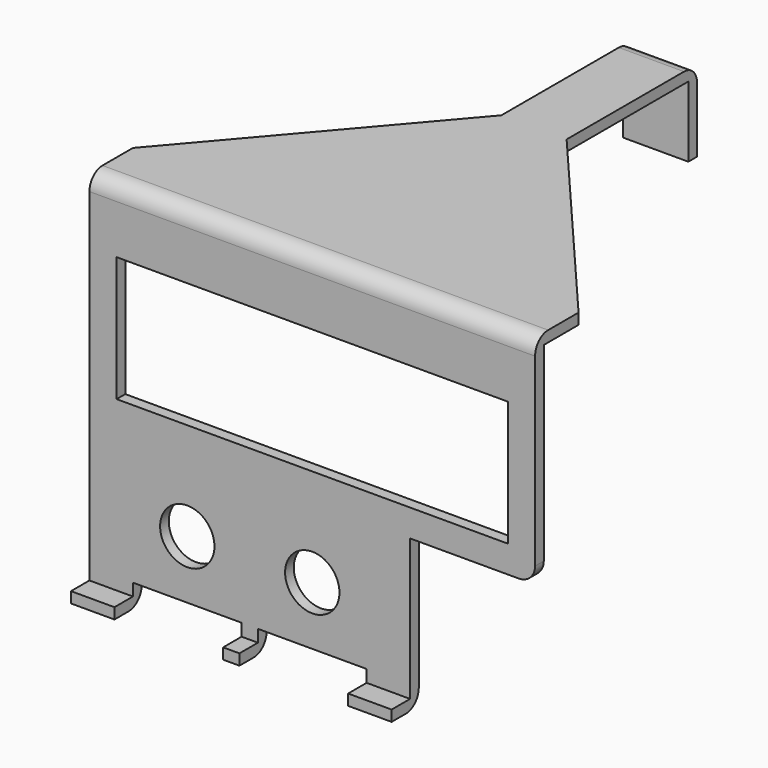
from build123d import *

# Parameters (mm, degrees)
F0_R     = 5
F0_W     = 72
F0_H     = 23
F1_DEPTH = 2
F0_W_2   = 8
F0_H_2   = 2
F0_W_3   = 3
F2_DEPTH = 6.25
F3_R     = 3
F5_DEPTH = 2
F4_W     = 12
F4_H     = 2
F6_DEPTH = 15
F7_R     = 3


with BuildPart() as f1:
    # F0 (on Front) → F1 (new body)
    with BuildSketch(Plane.XZ):
        with BuildLine():
            Line((29.867854, 38.356669), (-52.132146, 38.356669))
            Line((-52.132146, 38.356669), (-52.132146, -27.643331))
            Line((-52.132146, -27.643331), (-44.132146, -27.643331))
            Line((-44.132146, -27.643331), (-44.132146, -25.393331))
            Line((-44.132146, -25.393331), (-24.132146, -25.393331))
            Line((-24.132146, -25.393331), (-24.132146, -27.643331))
            Line((-24.132146, -27.643331), (-21.132146, -27.643331))
            Line((-21.132146, -27.643331), (-21.132146, -25.393331))
            Line((-21.132146, -25.393331), (-1.132146, -25.393331))
            Line((-1.132146, -25.393331), (-1.132146, -27.643331))
            Line((-1.132146, -27.643331), (6.867854, -27.643331))
            Line((6.867854, -27.643331), (6.867854, -1.643331))
            Line((6.867854, -1.643331), (26.867854, -1.643331))
            ThreePointArc((26.867854, -1.643331), (28.989174, -0.764651), (29.867854, 1.356669))
            Line((29.867854, 1.356669), (29.867854, 38.356669))
        make_face()
        with Locations((-34.132146, -14.643331)):
            Circle(F0_R, mode=Mode.SUBTRACT)
        with Locations((-11.132146, -14.643331)):
            Circle(F0_R, mode=Mode.SUBTRACT)
        with Locations((-11.132146, 14.856669)):
            Rectangle(F0_W, F0_H, mode=Mode.SUBTRACT)
    extrude(amount=F1_DEPTH)

    # F0 (on Front) → F2 (join)
    with BuildSketch(Plane.XZ):
        with Locations((-48.132146, -28.643331)):
            Rectangle(F0_W_2, F0_H_2)
        with Locations((-22.632146, -28.643331)):
            Rectangle(F0_W_3, F0_H_2)
        with Locations((2.867854, -28.643331)):
            Rectangle(F0_W_2, F0_H_2)
    extrude(amount=F2_DEPTH)

    # F3
    f3_edges = [f1.edges().sort_by_distance(p)[0] for p in [
        (-48.132146, 0, -29.643331),
        (-22.632146, 0, -29.643331),
        (2.867854, 0, -29.643331),
    ]]
    fillet(f3_edges, radius=F3_R)

    # F4 (on face) → F5 (join)
    with BuildSketch(Plane.XY.offset(38.356669)):
        Polygon((-52.132146, 8), (-52.132146, 0), (29.867854, 0), (29.867854, 8), (-5.132146, 49), (-5.132146, 77), (-17.132146, 77), (-17.132146, 49), align=None)
    extrude(amount=-F5_DEPTH)

    # F4 (on face) → F6 (join)
    with BuildSketch(Plane.XY.offset(38.356669)):
        with Locations((-11.132146, 78)):
            Rectangle(F4_W, F4_H)
    extrude(amount=-F6_DEPTH)

    # F7
    f7_edges = [f1.edges().sort_by_distance(p)[0] for p in [
        (-11.132146, 79, 38.356669),
        (-11.132146, -2, 38.356669),
    ]]
    fillet(f7_edges, radius=F7_R)


solid = f1.part
